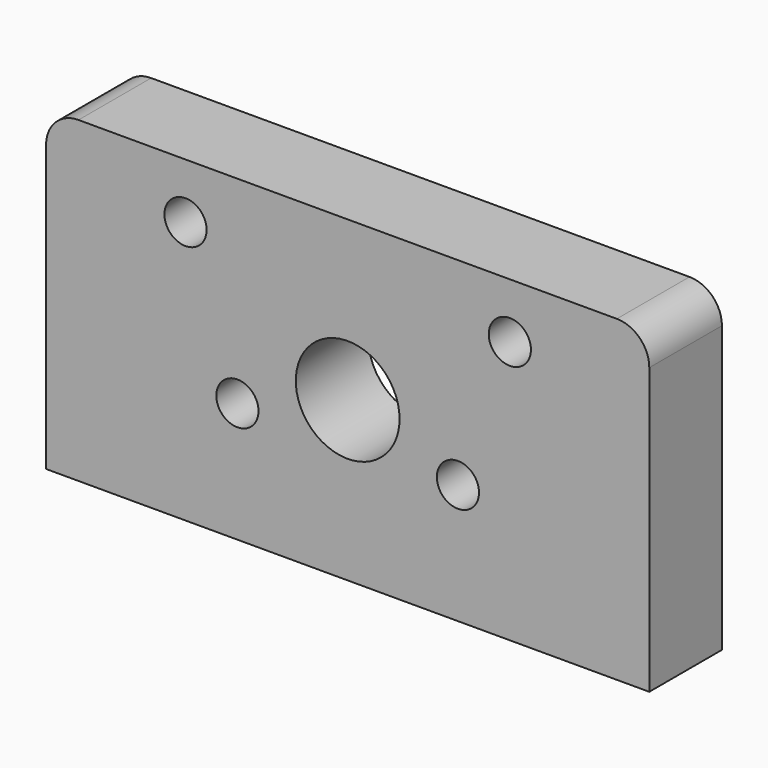
from build123d import *

# Parameters (mm, degrees)
F1_DEPTH = 14
F2_R     = 8
F2_R_2   = 3.25
F3_DEPTH = 14.001


with BuildPart() as f1:
    # F0 (on Front) → F1 (new body)
    with BuildSketch(Plane.XZ):
        with BuildLine():
            Line((-46.5, -24.5), (46.5, -24.5))
            Line((46.5, -24.5), (46.5, 19.5))
            ThreePointArc((46.5, 19.5), (45.035534, 23.035534), (41.5, 24.5))
            Line((41.5, 24.5), (-41.5, 24.5))
            ThreePointArc((-41.5, 24.5), (-45.035534, 23.035534), (-46.5, 19.5))
            Line((-46.5, 19.5), (-46.5, -24.5))
        make_face()
    extrude(amount=F1_DEPTH)

    # F2 (on face) → F3 (cut, through all)
    with BuildSketch(Plane.XZ.offset(14)):
        Circle(F2_R)
        with Locations((-17, -6)):
            Circle(F2_R_2)
        with Locations((-25, 16)):
            Circle(F2_R_2)
        with Locations((25, 16)):
            Circle(F2_R_2)
        with Locations((17, -6)):
            Circle(F2_R_2)
    extrude(amount=-F3_DEPTH, mode=Mode.SUBTRACT)


solid = f1.part
